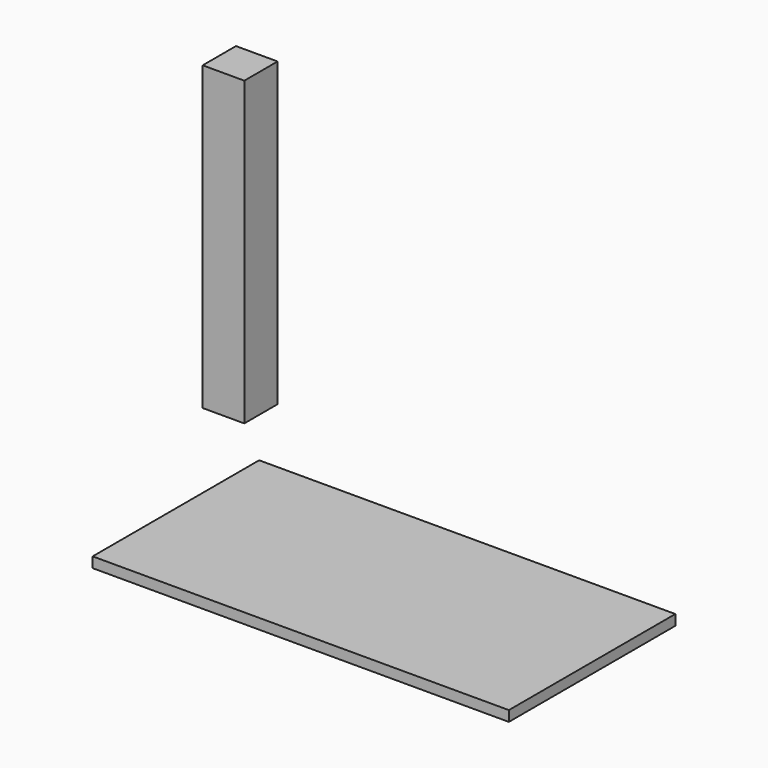
from build123d import *

# Parameters (mm, degrees)
F0_W     = 1000
F0_H     = 500
F1_DEPTH = 25
F2_W     = 100
F2_H     = 100
F3_DEPTH = 725


with BuildPart() as f1:
    # F0 (on Top) → F1 (new body)
    with BuildSketch(Plane.XY):
        with Locations((500, 250)):
            Rectangle(F0_W, F0_H)
        with Locations((500, 250)):
            Rectangle(F0_W, F0_H)
    extrude(amount=F1_DEPTH)


with BuildPart() as f3:
    # F2 (on Top) → F3 (new body)
    with BuildSketch(Plane.XY):
        with Locations((-195.240326, 686.962859)):
            Rectangle(F2_W, F2_H)
    extrude(amount=F3_DEPTH)


solid = Compound([f1.part, f3.part])
